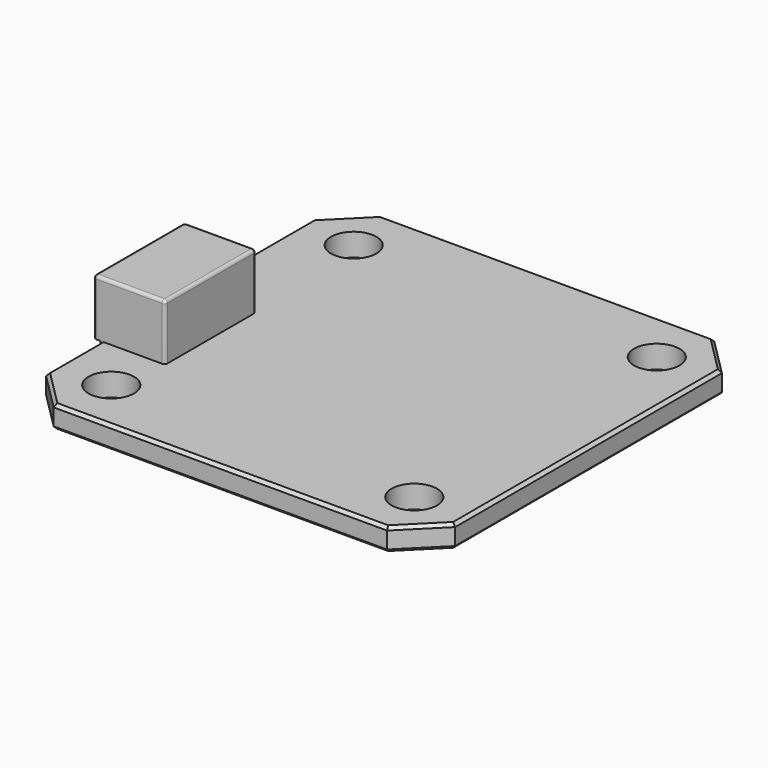
from build123d import *

# Parameters (mm, degrees)
F0_R     = 1.5
F1_DEPTH = 1.5
F2_W     = 4.733152427
F2_H     = 7.5
F3_DEPTH = 3.7
F4_W     = 4.6442656718
F4_H     = 7.5
F5_DEPTH = 2.3
F6_R     = 0.2
F7_SIZE  = 0.2
F8_R     = 0.2


with BuildPart() as f1:
    # F0 (on Top) → F1 (new body)
    with BuildSketch(Plane.XY):
        Polygon((11.0012499681, 13.5), (-11.0012499681, 13.5), (-13.5, 11.0012499681), (-13.5, -11.0012499681), (-11.0012499681, -13.5), (11.0012499681, -13.5), (13.5, -11.0012499681), (13.5, 11.0012499681), align=None)
        with Locations((-10, -10)):
            Circle(F0_R, mode=Mode.SUBTRACT)
        with Locations((10, -10)):
            Circle(F0_R, mode=Mode.SUBTRACT)
        with Locations((-10, 10)):
            Circle(F0_R, mode=Mode.SUBTRACT)
        with Locations((10, 10)):
            Circle(F0_R, mode=Mode.SUBTRACT)
    extrude(amount=F1_DEPTH)

    # F2 (on face) → F3 (join)
    with BuildSketch(Plane.XY.offset(1.5)):
        with Locations((-11.6115645505, -2.75)):
            Rectangle(F2_W, F2_H)
    extrude(amount=F3_DEPTH)

    # F4 (on face) → F5 (join)
    with BuildSketch(Plane(origin=(0, 0, 0), x_dir=(1, 0, 0), z_dir=(0, 0, -1))):
        with Locations((-11.5750247117, 3.75)):
            Rectangle(F4_W, F4_H)
    extrude(amount=F5_DEPTH)

    # F6
    f6_edges = [f1.edges().sort_by_distance(p)[0] for p in [
        (-11.611565, 1, 5.2),
        (-9.244988, -2.75, 5.2),
        (-11.611565, -6.5, 5.2),
        (-9.244988, -6.5, 3.35),
        (-9.244988, 1, 3.35),
        (-13.978141, -2.75, 5.2),
        (-13.978141, -6.5, 3.35),
        (-13.978141, 1, 3.35),
    ]]
    fillet(f6_edges, radius=F6_R)

    # F7
    f7_edges = [f1.edges().sort_by_distance(p)[0] for p in [
        (0, -13.5, 1.5),
        (-12.250625, -12.250625, 1.5),
        (-13.5, -8.750625, 1.5),
        (12.250625, -12.250625, 1.5),
        (13.5, 0, 1.5),
        (-13.5, 6.000625, 1.5),
        (-12.250625, 12.250625, 1.5),
        (0, 13.5, 1.5),
        (12.250625, 12.250625, 1.5),
        (13.5, 0, 0),
        (0, 13.5, 0),
        (-12.250625, 12.250625, 0),
        (-13.5, 5.500625, 0),
        (-13.5, -9.250625, 0),
        (-12.250625, -12.250625, 0),
        (0, -13.5, 0),
        (12.250625, -12.250625, 0),
    ]]
    chamfer(f7_edges, length=F7_SIZE)

    # F8
    f8_edges = [f1.edges().sort_by_distance(p)[0] for p in [
        (-11.575025, -7.5, -2.3),
        (-9.252892, -3.75, -2.3),
        (-11.575025, 0, -2.3),
        (-13.897158, 0, -1.15),
        (-13.897158, -7.5, -1.15),
        (-9.252892, -7.5, -1.15),
        (-9.252892, 0, -1.15),
    ]]
    fillet(f8_edges, radius=F8_R)


solid = f1.part
